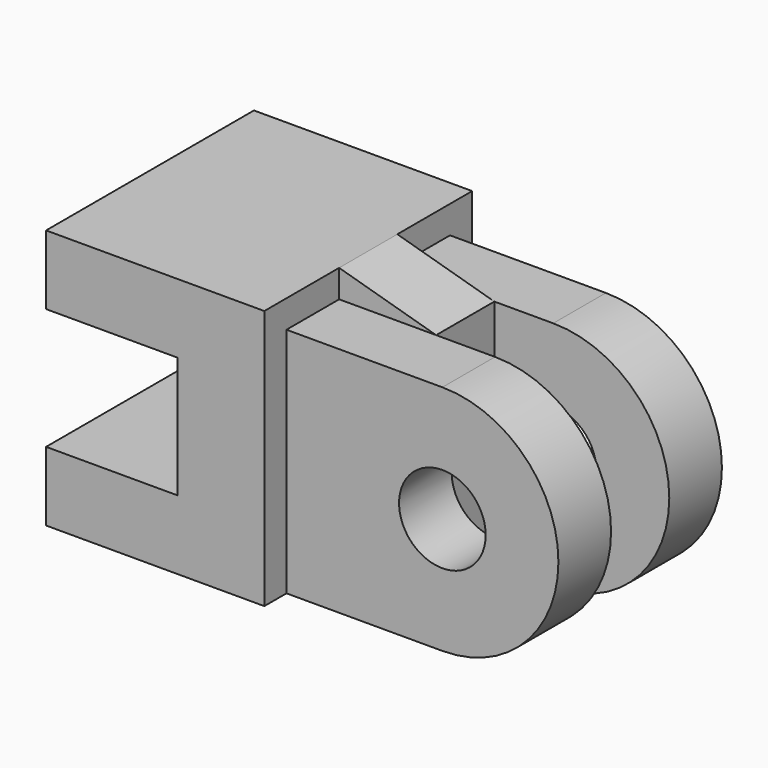
from build123d import *

# Parameters (mm, degrees)
F0_W      = 63
F0_H      = 75
F1_DEPTH  = 75
F2_W      = 38
F2_H      = 35
F3_DEPTH  = 75
F4_W      = 19
F4_H      = 67
F5_DEPTH  = 45
F7_DEPTH  = 28
F9_DEPTH  = 25
F11_DEPTH = 19
F13_DEPTH = 19
F15_DEPTH = 100


with BuildPart() as f1:
    # F0 (on Top) → F1 (new body)
    with BuildSketch(Plane.XY):
        with Locations((-19.216308, -1.011902)):
            Rectangle(F0_W, F0_H)
    extrude(amount=F1_DEPTH)

    # F2 (on face) → F3 (cut)
    with BuildSketch(Plane.XZ.offset(38.511902)):
        with Locations((-31.716308, 37.5)):
            Rectangle(F2_W, F2_H)
    extrude(amount=-F3_DEPTH, mode=Mode.SUBTRACT)

    # F4 (on face) → F5 (join)
    with BuildSketch(Plane.YZ.offset(12.283692)):
        with Locations((-21.011902, 33.5)):
            Rectangle(F4_W, F4_H)
        with Locations((18.988098, 33.5)):
            Rectangle(F4_W, F4_H)
    extrude(amount=F5_DEPTH)

    # F6 (on face) → F7 (join)
    with BuildSketch(Plane.YZ.offset(12.283692)):
        Polygon((-11.511902, 75), (-11.511902, 67), (-11.511902, 0), (9.488098, 0), (9.488098, 67), (9.488098, 75), align=None)
    extrude(amount=F7_DEPTH)

    # F8 (on face) → F9 (cut)
    with BuildSketch(Plane.XZ.offset(11.511902)):
        Polygon((40.283692, 75), (12.283692, 75), (40.283692, 67), align=None)
    extrude(amount=-F9_DEPTH, mode=Mode.SUBTRACT)

    # F10 (on face) → F11 (join)
    with BuildSketch(Plane.XZ.offset(30.511902)):
        with BuildLine():
            Line((57.283692, 67), (57.283692, 0))
            ThreePointArc((57.283692, 0), (90.783692, 33.5), (57.283692, 67))
        make_face()
    extrude(amount=-F11_DEPTH)

    # F12 (on face) → F13 (join)
    with BuildSketch(Plane(origin=(0, 28.488098, 0), x_dir=(-1, 0, 0), z_dir=(0, 1, 0))):
        with BuildLine():
            Line((-57.283692, 0), (-57.283692, 67))
            ThreePointArc((-57.283692, 67), (-90.783692, 33.5), (-57.283692, 0))
        make_face()
    extrude(amount=-F13_DEPTH)

    # F14 (on face) → F15 (cut)
    with BuildSketch(Plane.XZ.offset(30.511902)):
        with BuildLine():
            ThreePointArc((69.783692, 33.5), (66.122527, 42.338835), (57.283692, 46))
            ThreePointArc((57.283692, 46), (48.444857, 24.661165), (69.783692, 33.5))
        make_face()
    extrude(amount=-F15_DEPTH, mode=Mode.SUBTRACT)


solid = f1.part
